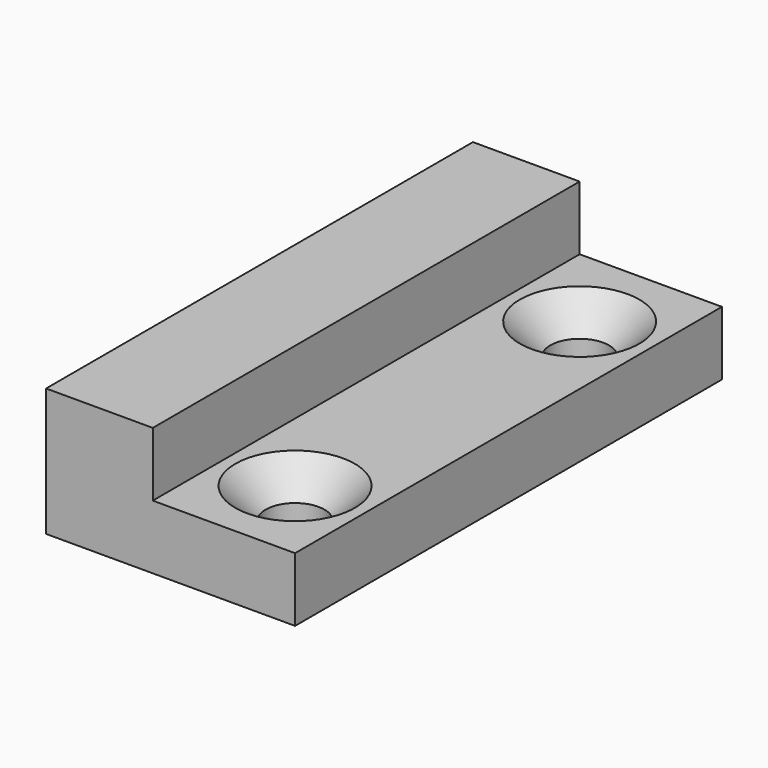
from build123d import *

# Parameters (mm, degrees)
F1_DEPTH       = 30
F3_D           = 3.3
F3_CSINK_D     = 6.72
F3_CSINK_ANGLE = 90
F4_W           = 3.6
F4_H           = 3.6
F5_DEPTH       = 3.3


with BuildPart() as f1:
    # F0 (on Front) → F1 (new body)
    with BuildSketch(Plane.XZ):
        Polygon((-4.7134831967, 0), (5.9865168033, 0), (5.9865168033, 3.6), (-2.0134831967, 3.6), (-2.0134831967, 7.2), (-8.0134831967, 7.2), (-8.0134831967, 3.6), (-4.7134831967, 3.6), align=None)
    extrude(amount=F1_DEPTH)

    # F3 (through all)
    with Locations(Plane.XY.offset(3.6)):
        with Locations((1.9865168033, -5), (1.9865168033, -25)):
            CounterSinkHole(F3_D / 2, F3_CSINK_D / 2, counter_sink_angle=F3_CSINK_ANGLE)

    # F4 (on face) → F5 (join, through all)
    with BuildSketch(Plane(origin=(-4.7134831967, 0, 0), x_dir=(0, -1, 0), z_dir=(-1, 0, 0))):
        with Locations((28.2, 1.8)):
            Rectangle(F4_W, F4_H)
    extrude(amount=F5_DEPTH)


solid = f1.part
